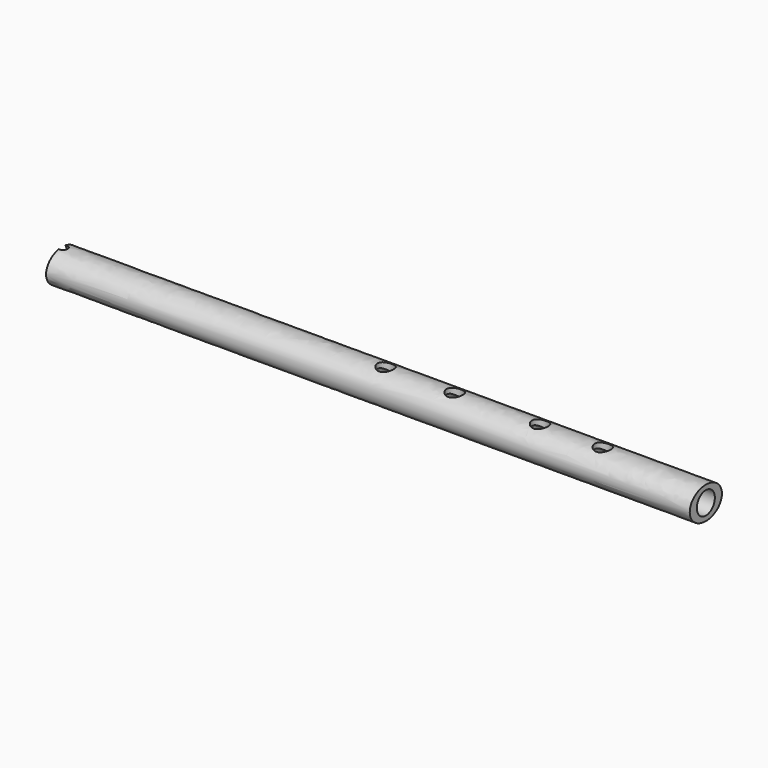
from build123d import *

# Parameters (mm, degrees)
F1_DEPTH  = 400
F2_R      = 7
F3_R      = 7
F10_R     = 5
F6_DEPTH  = 25
F11_DEPTH = 25
F9_DEPTH  = 7.0010001011
F9_TAPER  = 20


with BuildPart() as f1:
    # F0 (on Right) → F1 (new body)
    with BuildSketch(Plane.YZ):
        with BuildLine():
            add(Edge.make_bspline(
                [(-12.5, 0), (-12.5, -17.3205080757), (6.25, -8.6602540378), (25, 0), (6.25, 8.6602540378), (-12.5, 17.3205080757), (-12.5, 0)],
                knots=[0, 0, 0, 2.0943951024, 2.0943951024, 4.1887902048, 4.1887902048, 6.2831853072, 6.2831853072, 6.2831853072], degree=2, weights=[1, 0.5, 1, 0.5, 1, 0.5, 1]))
        make_face()
    extrude(amount=F1_DEPTH)

    # F2 (on face) → F4 section 0
    with BuildSketch(Plane.YZ.offset(400)):
        Circle(F2_R)
    # F3 (on Right) → F4 section 1
    with BuildSketch(Plane.YZ):
        Circle(F3_R)
    loft(mode=Mode.SUBTRACT)

    # F10 (on Top) → F6 (cut)
    with BuildSketch(Plane.XY):
        with Locations((336, 0)):
            Circle(F10_R)
        with Locations((297, 0)):
            Circle(F10_R)
        with Locations((244, 0)):
            Circle(F10_R)
        with Locations((201, 0)):
            Circle(F10_R)
    extrude(amount=F6_DEPTH, mode=Mode.SUBTRACT)

    # F10 (on Top) → F11 (cut)
    with BuildSketch(Plane.XY):
        with Locations((158, 0)):
            Circle(F10_R)
    extrude(amount=-F11_DEPTH, mode=Mode.SUBTRACT)

    # F8 (on offset) → F9 (cut, through all)
    with BuildSketch(Plane.XY.offset(3)):
        with BuildLine():
            Line((-4, -5.4565425053), (1.4357787137, -4.9809734905))
            ThreePointArc((1.4357787137, -4.9809734905), (6, 0), (1.4357787137, 4.9809734905))
            Line((1.4357787137, 4.9809734905), (-4, 5.4565425053))
            Line((-4, 5.4565425053), (-4, -5.4565425053))
        make_face()
    extrude(amount=F9_DEPTH, taper=F9_TAPER, mode=Mode.SUBTRACT)


solid = f1.part
